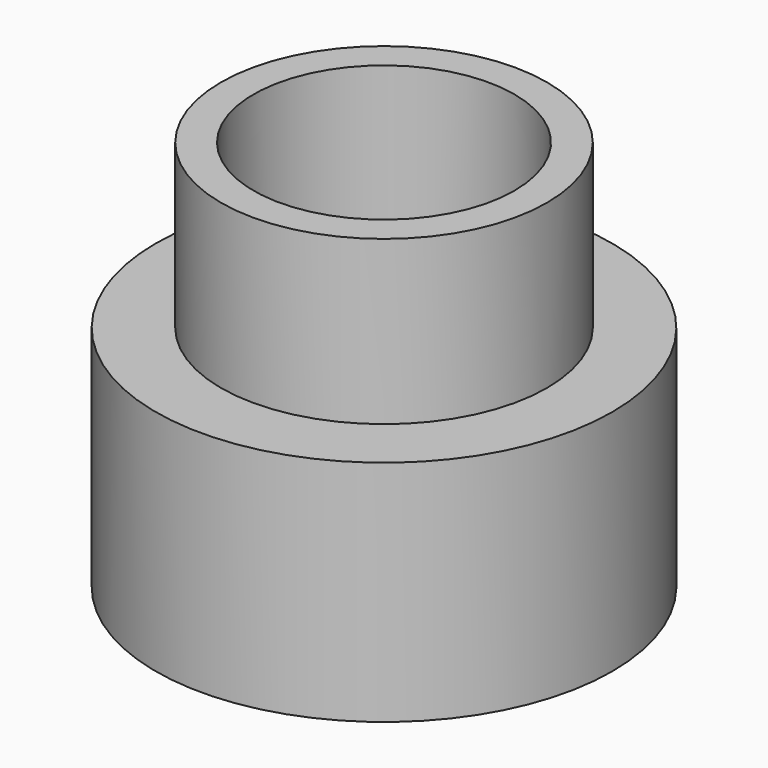
from build123d import *

# Parameters (mm, degrees)
SKETCH_R      = 70
PAD_DEPTH     = 70
SKETCH001_R   = 50
SKETCH001_R_2 = 40
PAD001_DEPTH  = 50


with BuildPart() as part:
    # Sketch → Pad (new body)
    with BuildSketch(Plane.XY):
        with Locations((90, 70)):
            Circle(SKETCH_R)
    extrude(amount=PAD_DEPTH)

    # Sketch001 (on Face3 of Pad) → Pad001 (join)
    with BuildSketch(Plane.XY.offset(70)):
        with Locations((90, 70)):
            Circle(SKETCH001_R)
        with Locations((90, 70)):
            Circle(SKETCH001_R_2, mode=Mode.SUBTRACT)
    extrude(amount=PAD001_DEPTH)


solid = part.part
